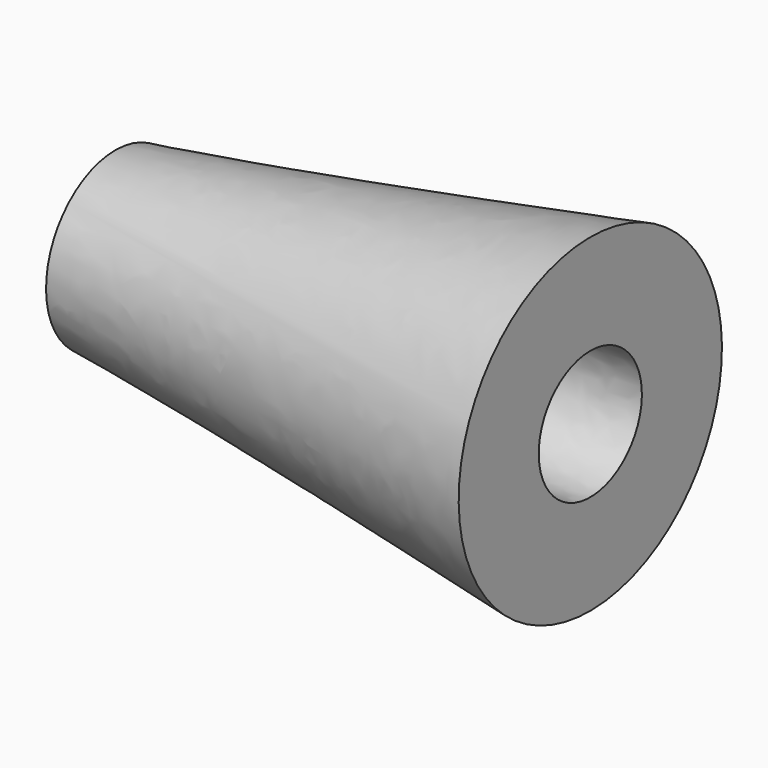
from build123d import *


with BuildPart() as f2:
    # F0 (on Top) → F2 (revolve)
    with BuildSketch(Plane.XY):
        Polygon((0, 0), (-185.291119, -22.596247), (0, -59.061434), align=None)
    revolve(axis=Axis((-2.962876, 0, -25.148071), (1, 0, 0)))


solid = f2.part
